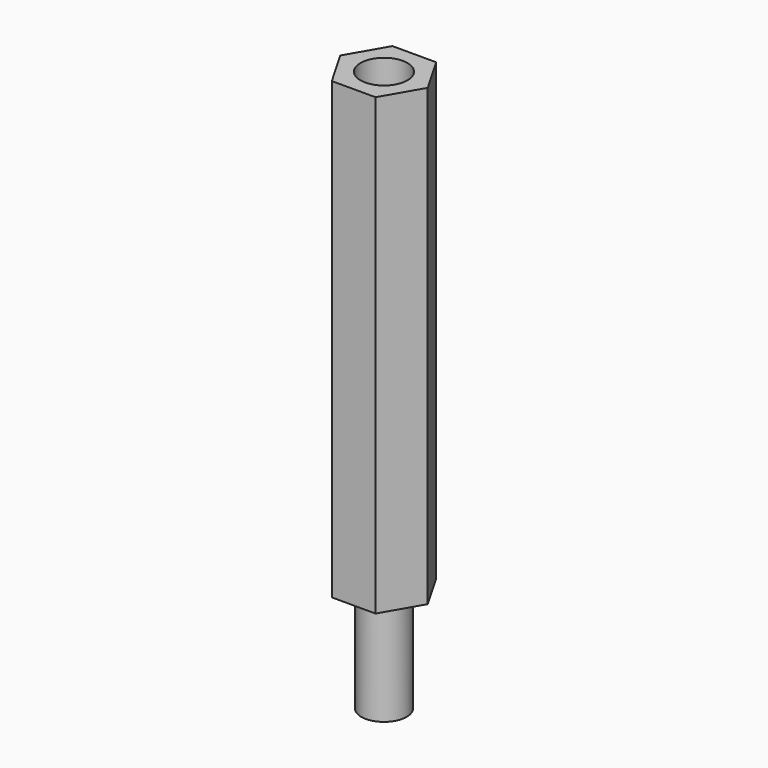
from build123d import *

# Parameters (mm, degrees)
PAD_DEPTH    = 30
SKETCH001_R  = 1.55
POCKET_DEPTH = 15
SKETCH002_R  = 1.5
PAD001_DEPTH = 7


with BuildPart() as part:
    # Sketch → Pad (new body)
    with BuildSketch(Plane.XY):
        Polygon((2.886751, 0), (1.443376, 2.5), (-1.443376, 2.5), (-2.886751, 0), (-1.443376, -2.5), (1.443376, -2.5), align=None)
    extrude(amount=PAD_DEPTH)

    # Sketch001 (on Face8 of Pad) → Pocket (cut)
    with BuildSketch(Plane.XY.offset(30)):
        Circle(SKETCH001_R)
    extrude(amount=-POCKET_DEPTH, mode=Mode.SUBTRACT)

    # Sketch002 (on Face4 of Pocket) → Pad001 (join)
    with BuildSketch(Plane(origin=(0, 0, 0), x_dir=(1, 0, 0), z_dir=(0, 0, -1))):
        Circle(SKETCH002_R)
    extrude(amount=PAD001_DEPTH)


solid = part.part
